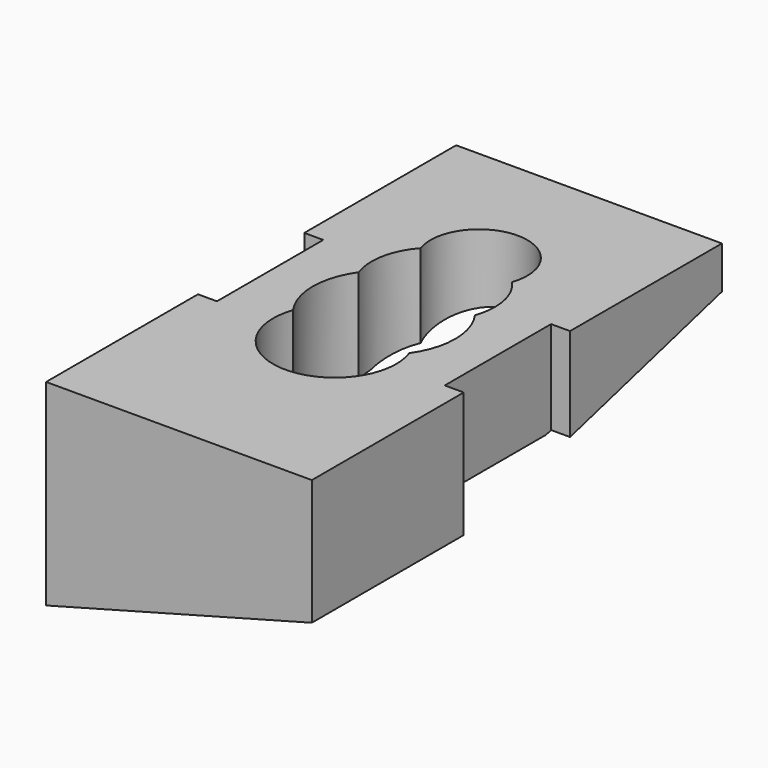
from build123d import *

# Parameters (mm, degrees)
BOX005_W                  = 12
BOX005_H                  = 60
BOX005_DEPTH              = 30
BOX006_W                  = 12
BOX006_H                  = 60
BOX006_DEPTH              = 30
BOX004_W                  = 50
BOX004_H                  = 30
BOX004_DEPTH              = 19
BOX004_PLACEMENT_ANGLE    = 15
CYLINDER012_R             = 5.1
CYLINDER012_DEPTH         = 50
CYLINDER007_R             = 7.5
CYLINDER007_DEPTH         = 70
CYLINDER009_R             = 6.5
CYLINDER009_DEPTH         = 70
CYLINDER010_R             = 7.5
CYLINDER010_DEPTH         = 70
CYLINDER011_R             = 6.5
CYLINDER011_DEPTH         = 70
FUSION007_PLACEMENT_ANGLE = 180
CYLINDER008_R             = 5.1
CYLINDER008_DEPTH         = 70
BOX003_W                  = 57
BOX003_H                  = 59
BOX003_DEPTH              = 20
CYLINDER004_R             = 6.35
CYLINDER004_DEPTH         = 50
BOX_W                     = 40
BOX_H                     = 20
BOX_DEPTH                 = 30
BOX_PLACEMENT_ANGLE       = 15
CYLINDER001_R             = 5
CYLINDER001_DEPTH         = 50
CYLINDER006_R             = 6.35
CYLINDER006_DEPTH         = 50
BOX001_W                  = 40
BOX001_H                  = 20
BOX001_DEPTH              = 30
BOX001_PLACEMENT_ANGLE    = 15
CYLINDER005_R             = 5
CYLINDER005_DEPTH         = 50
FUSION003_PLACEMENT_ANGLE = 180
BOX002_W                  = 24
BOX002_H                  = 39
BOX002_DEPTH              = 10


with BuildPart() as cube005:
    # Box005 → Box005 (new body)
    with BuildSketch(Plane(origin=(14, -29, 23), x_dir=(1, 0, 0), z_dir=(0, 0, 1))):
        with Locations((6, 30)):
            Rectangle(BOX005_W, BOX005_H)
    extrude(amount=BOX005_DEPTH)


with BuildPart() as fusion009:
    # Box006 → Box006 (new body)
    with BuildSketch(Plane(origin=(-26, -29, 23), x_dir=(1, 0, 0), z_dir=(0, 0, 1))):
        with Locations((6, 30)):
            Rectangle(BOX006_W, BOX006_H)
    extrude(amount=BOX006_DEPTH)

    # Fusion009: union Cube005
    add(cube005.part)


with BuildPart() as cube004:
    # Box004 → Box004 (new body)
    with BuildSketch(Plane.XY):
        with Locations((25, 15)):
            Rectangle(BOX004_W, BOX004_H)
    extrude(amount=BOX004_DEPTH)


with BuildPart() as cube004_1:
    # Box004 placement: moved
    add(cube004.part.moved(Location((-24, 7.965926, 22.258819))).rotate(Axis((-24, 7.965926, 22.258819), (1, 0, 0)), BOX004_PLACEMENT_ANGLE))


with BuildPart() as obj1:
    # Cylinder012 → Cylinder012 (new body)
    with BuildSketch(Plane(origin=(0, -12.5, -17), x_dir=(1, 0, 0), z_dir=(0, 0, 1))):
        Circle(CYLINDER012_R)
    extrude(amount=CYLINDER012_DEPTH)


with BuildPart() as obj2:
    # Cylinder007 → Cylinder007 (new body)
    with BuildSketch(Plane.XY):
        Circle(CYLINDER007_R)
    extrude(amount=CYLINDER007_DEPTH)


with BuildPart() as fusion006:
    # Cylinder009 → Cylinder009 (new body)
    with BuildSketch(Plane(origin=(0, 6.5, 0), x_dir=(1, 0, 0), z_dir=(0, 0, 1))):
        Circle(CYLINDER009_R)
    extrude(amount=CYLINDER009_DEPTH)

    # Fusion006: union obj2
    add(obj2.part)


with BuildPart() as obj3:
    # Cylinder010 → Cylinder010 (new body)
    with BuildSketch(Plane.XY):
        Circle(CYLINDER010_R)
    extrude(amount=CYLINDER010_DEPTH)


with BuildPart() as fusion008:
    # Cylinder011 → Cylinder011 (new body)
    with BuildSketch(Plane(origin=(0, 6.5, 0), x_dir=(1, 0, 0), z_dir=(0, 0, 1))):
        Circle(CYLINDER011_R)
    extrude(amount=CYLINDER011_DEPTH)

    # Fusion007: union obj3
    add(obj3.part)


with BuildPart() as fusion008_1:
    # Fusion007 placement: moved
    add(fusion008.part.rotate(Axis((0, 0, 0), (0, 0, 1)), FUSION007_PLACEMENT_ANGLE))

    # Fusion008: union Fusion006
    add(fusion006.part)


with BuildPart() as cylinder008:
    # Cylinder008 → Cylinder008 (new body)
    with BuildSketch(Plane(origin=(0, 12.5, 0), x_dir=(1, 0, 0), z_dir=(0, 0, 1))):
        Circle(CYLINDER008_R)
    extrude(amount=CYLINDER008_DEPTH)


with BuildPart() as cube003:
    # Box003 → Box003 (new body)
    with BuildSketch(Plane(origin=(-29.5, -29, 51.5), x_dir=(1, 0, 0), z_dir=(0, 0, 1))):
        with Locations((28.5, 29.5)):
            Rectangle(BOX003_W, BOX003_H)
    extrude(amount=BOX003_DEPTH)


with BuildPart() as obj4:
    # Cylinder004 → Cylinder004 (new body)
    with BuildSketch(Plane.XY):
        Circle(CYLINDER004_R)
    extrude(amount=CYLINDER004_DEPTH)


with BuildPart() as cube:
    # Box → Box (new body)
    with BuildSketch(Plane.XY):
        with Locations((20, 10)):
            Rectangle(BOX_W, BOX_H)
    extrude(amount=BOX_DEPTH)


with BuildPart() as cube_1:
    # Box placement: moved
    add(cube.part.moved(Location((-19.558238, 7, 39.759763))).rotate(Axis((-19.558238, 7, 39.759763), (0, 1, 0)), BOX_PLACEMENT_ANGLE))


with BuildPart() as fusion001:
    # Cylinder001 → Cylinder001 (new body)
    with BuildSketch(Plane(origin=(0, 12.5, 0), x_dir=(1, 0, 0), z_dir=(0, 0, 1))):
        Circle(CYLINDER001_R)
    extrude(amount=CYLINDER001_DEPTH)

    # Fusion: union Cube
    add(cube_1.part)

    # Fusion001: union obj4
    add(obj4.part)


with BuildPart() as obj5:
    # Cylinder006 → Cylinder006 (new body)
    with BuildSketch(Plane.XY):
        Circle(CYLINDER006_R)
    extrude(amount=CYLINDER006_DEPTH)


with BuildPart() as cube001:
    # Box001 → Box001 (new body)
    with BuildSketch(Plane.XY):
        with Locations((20, 10)):
            Rectangle(BOX001_W, BOX001_H)
    extrude(amount=BOX001_DEPTH)


with BuildPart() as cube001_1:
    # Box001 placement: moved
    add(cube001.part.moved(Location((-19.558238, 7, 39.759763))).rotate(Axis((-19.558238, 7, 39.759763), (0, 1, 0)), BOX001_PLACEMENT_ANGLE))


with BuildPart() as fusion004:
    # Cylinder005 → Cylinder005 (new body)
    with BuildSketch(Plane(origin=(0, 12.5, 0), x_dir=(1, 0, 0), z_dir=(0, 0, 1))):
        Circle(CYLINDER005_R)
    extrude(amount=CYLINDER005_DEPTH)

    # Fusion002: union Cube001
    add(cube001_1.part)

    # Fusion003: union obj5
    add(obj5.part)


with BuildPart() as fusion004_1:
    # Fusion003 placement: moved
    add(fusion004.part.rotate(Axis((0, 0, 0), (0, 0, 1)), FUSION003_PLACEMENT_ANGLE))

    # Fusion004: union Fusion001
    add(fusion001.part)


with BuildPart() as cut005:
    # Box002 → Box002 (new body)
    with BuildSketch(Plane(origin=(-12, -13, 41.5), x_dir=(1, 0, 0), z_dir=(0, 0, 1))):
        with Locations((12, 19.5)):
            Rectangle(BOX002_W, BOX002_H)
    extrude(amount=BOX002_DEPTH)

    # Fusion005: union Fusion004
    add(fusion004_1.part)

    # Cut: cut Cube003
    add(cube003.part, mode=Mode.SUBTRACT)

    # Cut001: cut Cylinder008
    add(cylinder008.part, mode=Mode.SUBTRACT)

    # Cut002: cut Fusion008
    add(fusion008_1.part, mode=Mode.SUBTRACT)

    # Cut003: cut obj1
    add(obj1.part, mode=Mode.SUBTRACT)

    # Cut004: cut Cube004
    add(cube004_1.part, mode=Mode.SUBTRACT)

    # Cut005: cut Fusion009
    add(fusion009.part, mode=Mode.SUBTRACT)


solid = cut005.part
